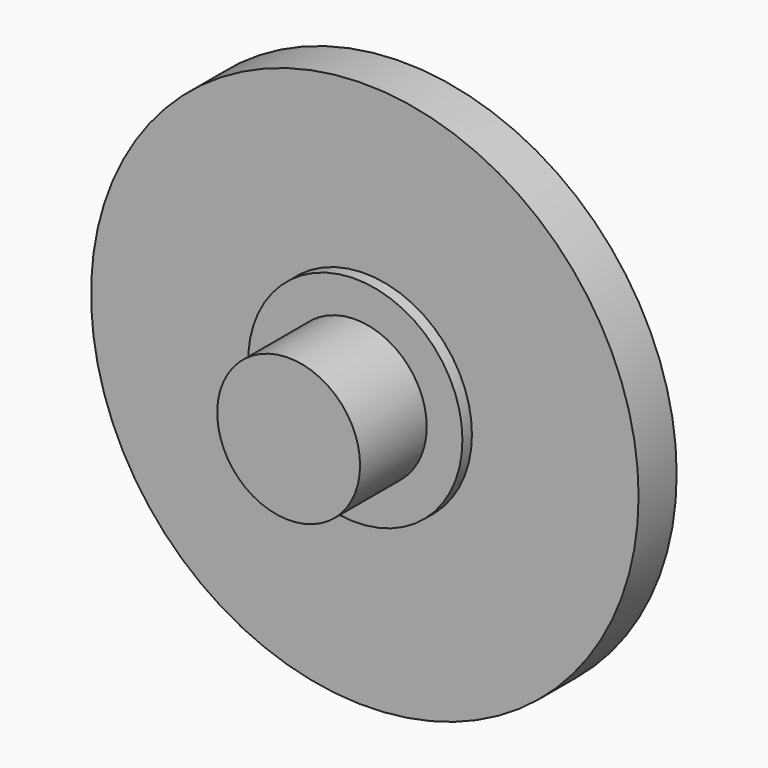
from build123d import *

# Parameters (mm, degrees)
F0_R     = 3
F0_R_2   = 4.5
F0_R_3   = 11.5
F1_DEPTH = 2
F2_DEPTH = 2.5
F3_DEPTH = 6


with BuildPart() as f1:
    # F0 (on Front) → F1 (new body)
    with BuildSketch(Plane.XZ):
        Circle(F0_R)
        Circle(F0_R_2)
        Circle(F0_R, mode=Mode.SUBTRACT)
        Circle(F0_R_3)
        Circle(F0_R_2, mode=Mode.SUBTRACT)
    extrude(amount=F1_DEPTH)

    # F0 (on Front) → F2 (join)
    with BuildSketch(Plane.XZ):
        Circle(F0_R_2)
        Circle(F0_R, mode=Mode.SUBTRACT)
    extrude(amount=F2_DEPTH)

    # F0 (on Front) → F3 (join)
    with BuildSketch(Plane.XZ):
        Circle(F0_R)
    extrude(amount=F3_DEPTH)


solid = f1.part
